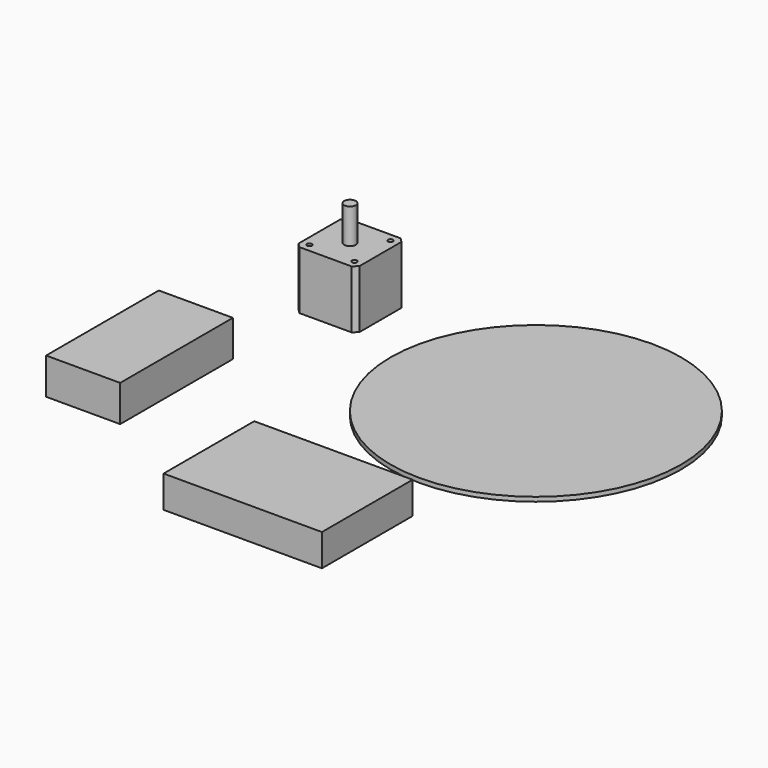
from build123d import *

# Parameters (mm, degrees)
F0_W      = 42
F0_H      = 42
F0_R      = 1.7
F1_DEPTH  = 40
F2_R      = 4
F3_DEPTH  = 24
F4_SIZE   = 3
F5_R      = 100
F6_DEPTH  = 3
F7_W      = 51
F7_H      = 97
F8_DEPTH  = 25
F9_W      = 109
F9_H      = 78
F10_DEPTH = 22


with BuildPart() as f1:
    # F0 (on Top) → F1 (new body)
    with BuildSketch(Plane.XY):
        with Locations((-21, 21)):
            Rectangle(F0_W, F0_H)
        with Locations((-36.5, 5.5)):
            Circle(F0_R, mode=Mode.SUBTRACT)
        with Locations((-5.5, 5.5)):
            Circle(F0_R, mode=Mode.SUBTRACT)
        with Locations((-36.5, 36.5)):
            Circle(F0_R, mode=Mode.SUBTRACT)
        with Locations((-5.5, 36.5)):
            Circle(F0_R, mode=Mode.SUBTRACT)
    extrude(amount=F1_DEPTH)

    # F2 (on face) → F3 (join)
    with BuildSketch(Plane.XY.offset(40)):
        with Locations((-21, 21)):
            Circle(F2_R)
    extrude(amount=F3_DEPTH)

    # F4
    f4_edges = [f1.edges().sort_by_distance(p)[0] for p in [
        (0, 42, 20),
        (0, 0, 20),
        (-42, 0, 20),
        (-42, 42, 20),
    ]]
    chamfer(f4_edges, length=F4_SIZE)


with BuildPart() as f6:
    # F5 (on Top) → F6 (new body)
    with BuildSketch(Plane.XY):
        with Locations((134.943619, -13.99817)):
            Circle(F5_R)
    extrude(amount=F6_DEPTH)


with BuildPart() as f8:
    # F7 (on Top) → F8 (new body)
    with BuildSketch(Plane.XY):
        with Locations((-59.015086, -112.598025)):
            Rectangle(F7_W, F7_H)
    extrude(amount=F8_DEPTH)


with BuildPart() as f10:
    # F9 (on Top) → F10 (new body)
    with BuildSketch(Plane.XY):
        with Locations((101.516344, -185.419658)):
            Rectangle(F9_W, F9_H)
    extrude(amount=F10_DEPTH)


solid = Compound([f1.part, f6.part, f8.part, f10.part])
